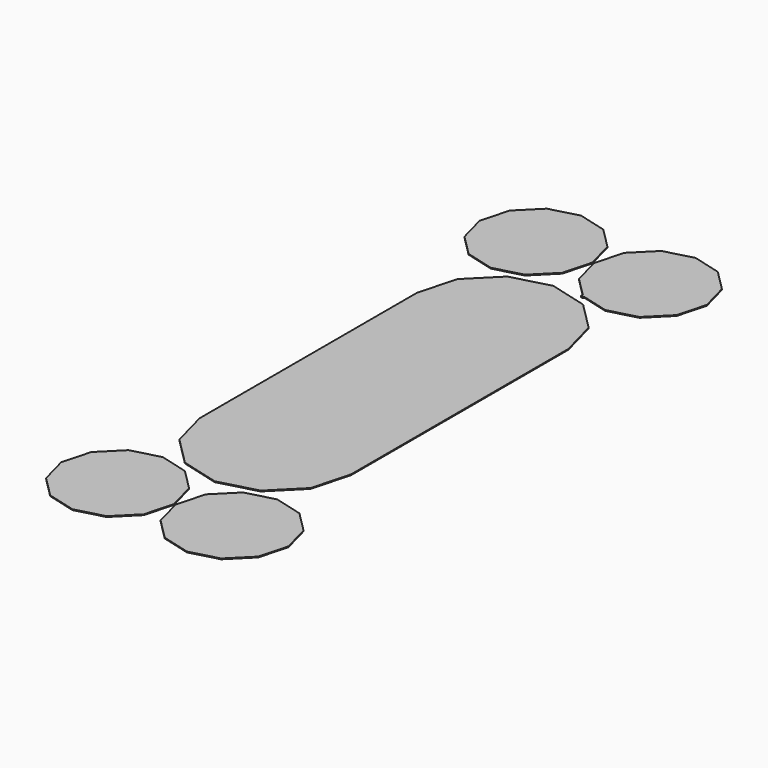
from build123d import *

# Parameters (mm, degrees)
F1_DEPTH = 3.175


with BuildPart() as f1:
    # F0 (on Top) → F1 (new body)
    with BuildSketch(Plane.XY):
        Polygon((609.6, -1092.2000061699), (609.6, 0), (568.7645430735, 152.4), (457.2, 263.9645430735), (304.8, 304.8), (152.4, 263.9645430735), (40.8354569265, 152.4), (0, 0), (0, -1092.2000061699), (40.8354569265, -1244.6000061699), (152.4, -1356.1645492434), (304.8, -1397.0000061699), (457.2, -1356.1645492434), (568.7645430735, -1244.6000061699), align=None)
    extrude(amount=F1_DEPTH)


with BuildPart() as f1b:
    # F0 (on Top) → F1, piece 2 (new body)
    with BuildSketch(Plane.XY):
        Polygon((271.2110919766, 391.7558911712), (301.625, 505.2621411712), (271.2110919766, 618.7683911712), (188.11875, 701.8607331478), (74.6125, 732.2746411712), (-38.89375, 701.8607331478), (-121.9860919766, 618.7683911712), (-152.4, 505.2621411712), (-121.9860919766, 391.7558911712), (-38.89375, 308.6635491946), (74.6125, 278.2496411712), (188.11875, 308.6635491946), align=None)
    extrude(amount=F1_DEPTH)


with BuildPart() as f1c:
    # F0 (on Top) → F1, piece 3 (new body)
    with BuildSketch(Plane.XY):
        with BuildLine():
            Line((731.5860919766, 391.7558911712), (762, 505.2621411712))
            Line((762, 505.2621411712), (731.5860919766, 618.7683911712))
            Line((731.5860919766, 618.7683911712), (648.49375, 701.8607331478))
            Line((648.49375, 701.8607331478), (534.9875, 732.2746411712))
            Line((534.9875, 732.2746411712), (421.48125, 701.8607331478))
            Line((421.48125, 701.8607331478), (338.3889080234, 618.7683911712))
            Line((338.3889080234, 618.7683911712), (307.975, 505.2621411712))
            Line((307.975, 505.2621411712), (338.3889080234, 391.7558911712))
            Line((338.3889080234, 391.7558911712), (416.9911219395, 313.1536772551))
            ThreePointArc((416.9911219395, 313.1536772551), (423.9112897955, 314.530184226), (427.83125, 308.6635491946))
            ThreePointArc((427.83125, 308.6635491946), (427.7769248697, 307.834707874), (427.6148789969, 307.0200482582))
            Line((427.6148789969, 307.0200482582), (534.9875, 278.2496411712))
            Line((534.9875, 278.2496411712), (648.49375, 308.6635491946))
            Line((648.49375, 308.6635491946), (731.5860919766, 391.7558911712))
        make_face()
        with BuildLine():
            ThreePointArc((416.9911219395, 313.1536772551), (418.30625, 303.1642878805), (427.6148789969, 307.0200482582))
            Line((427.6148789969, 307.0200482582), (421.48125, 308.6635491946))
            Line((421.48125, 308.6635491946), (416.9911219395, 313.1536772551))
        make_face()
        with BuildLine():
            Line((421.48125, 308.6635491946), (427.6148789969, 307.0200482582))
            ThreePointArc((427.6148789969, 307.0200482582), (427.7769248697, 307.834707874), (427.83125, 308.6635491946))
            ThreePointArc((427.83125, 308.6635491946), (423.9112897955, 314.530184226), (416.9911219395, 313.1536772551))
            Line((416.9911219395, 313.1536772551), (421.48125, 308.6635491946))
        make_face()
    extrude(amount=F1_DEPTH)


with BuildPart() as f1d:
    # F0 (on Top) → F1, piece 4 (new body)
    with BuildSketch(Plane.XY):
        Polygon((731.5860919766, -1710.9683973411), (762, -1597.4621473411), (731.5860919766, -1483.9558973411), (648.49375, -1400.8635553644), (534.9875, -1370.4496473411), (421.48125, -1400.8635553644), (338.3889080234, -1483.9558973411), (307.975, -1597.4621473411), (338.3889080234, -1710.9683973411), (421.48125, -1794.0607393177), (534.9875, -1824.4746473411), (648.49375, -1794.0607393177), align=None)
    extrude(amount=F1_DEPTH)


with BuildPart() as f1e:
    # F0 (on Top) → F1, piece 5 (new body)
    with BuildSketch(Plane.XY):
        Polygon((271.2110919766, -1710.9683973411), (301.625, -1597.4621473411), (271.2110919766, -1483.9558973411), (188.11875, -1400.8635553644), (74.6125, -1370.4496473411), (-38.89375, -1400.8635553644), (-121.9860919766, -1483.9558973411), (-152.4, -1597.4621473411), (-121.9860919766, -1710.9683973411), (-38.89375, -1794.0607393177), (74.6125, -1824.4746473411), (188.11875, -1794.0607393177), align=None)
    extrude(amount=F1_DEPTH)


solid = Compound([f1.part, f1b.part, f1c.part, f1d.part, f1e.part])
